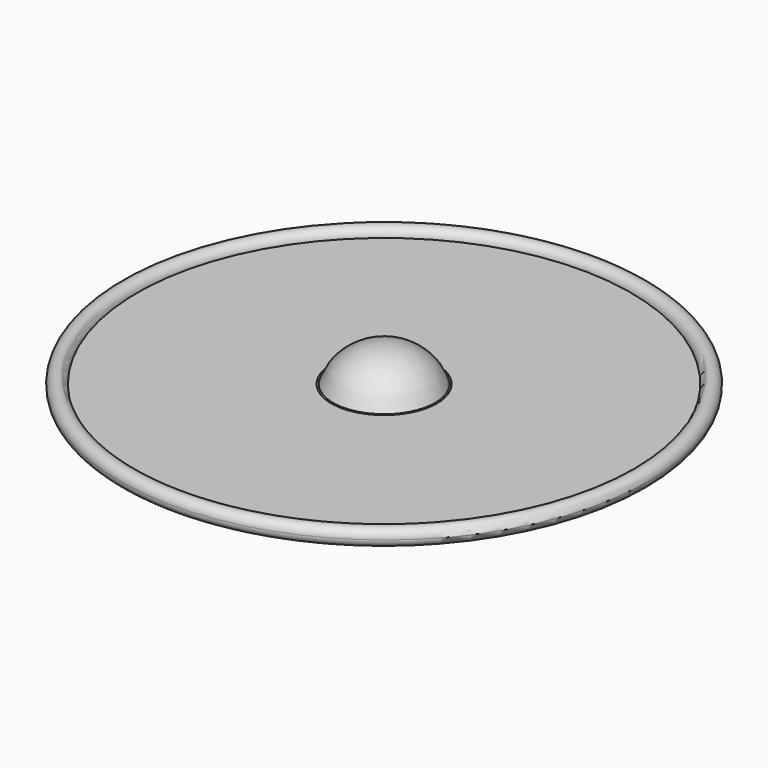
from build123d import *


with BuildPart() as f1:
    # F0 (on Front) → F1 (revolve)
    with BuildSketch(Plane.XZ):
        with BuildLine():
            Line((0, 20), (0, 10))
            ThreePointArc((0, 10), (16.424575, 9.273726), (30, 0))
            ThreePointArc((30, 0), (18.339762, 15.009644), (0, 20))
        make_face()
        with BuildLine():
            ThreePointArc((30, -1), (29.292893, -0.707107), (29, 0))
            Line((29, 0), (29, -3))
            Line((29, -3), (146, -3))
            ThreePointArc((146, -3), (145.256584, -1.581139), (145, 0))
            Line((145, 0), (31, 0))
            ThreePointArc((31, 0), (30.707107, -0.707107), (30, -1))
        make_face()
        with BuildLine():
            ThreePointArc((145, 0), (145.256584, -1.581139), (146, -3))
            ThreePointArc((146, -3), (151.581139, -4.743416), (155, 0))
            ThreePointArc((155, 0), (150, 5), (145, 0))
        make_face()
    revolve(axis=Axis((0, 0, 10), (0, 0, 1)))


solid = f1.part
